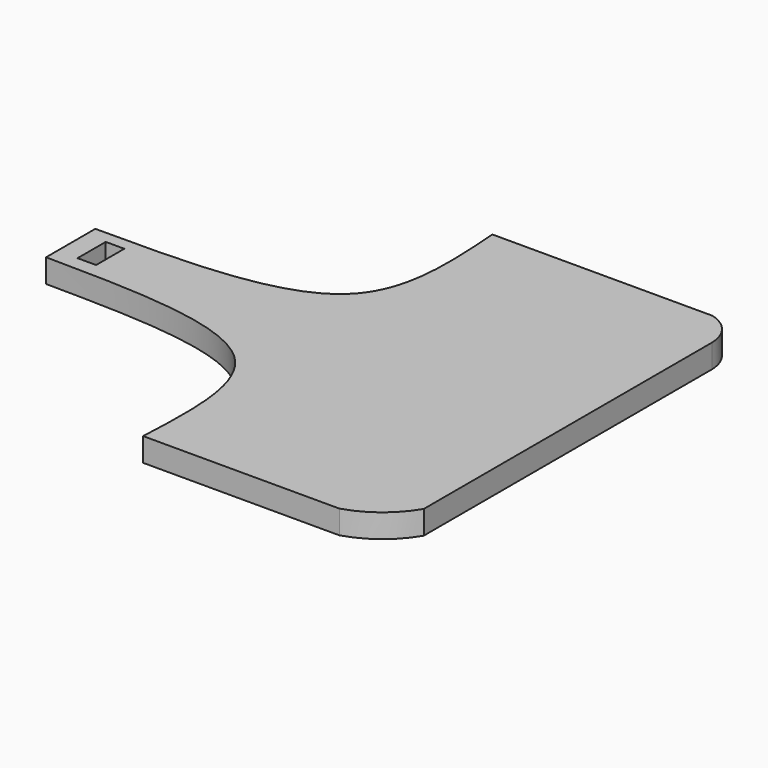
from build123d import *

# Parameters (mm, degrees)
F0_W     = 400
F0_H     = 352
F1_DEPTH = 19
F3_DEPTH = 19.001
F5_DEPTH = 19.0010001
F6_W     = 14.9907767773
F6_H     = 28.43076922
F7_DEPTH = 19.0010001


with BuildPart() as f1:
    # F0 (on Top) → F1 (new body)
    with BuildSketch(Plane.XY):
        Rectangle(F0_W, F0_H)
    extrude(amount=F1_DEPTH)

    # F2 (on face) → F3 (cut, through all)
    with BuildSketch(Plane.XY.offset(19)):
        with BuildLine():
            add(Edge.make_bspline(
                [(-200, -23.7784627825), (-126.5126396068, -24.453447739), (6.9760460018, -25.6795477673), (2.163274492, -129.3855711593), (0, -176)],
                knots=[0, 0, 0, 0, 0.5505137762, 1, 1, 1, 1], degree=3))
            Line((-200, -23.7784627825), (-200, -176))
            Line((-200, -176), (0, -176))
        make_face()
        with BuildLine():
            Line((-200, 176), (-200, 25.8461534977))
            add(Edge.make_bspline(
                [(-200, 25.8461534977), (-125.0792777845, 25.7364442733), (10.3974148662, 25.5380606696), (3.211839993, 129.5211703688), (0, 176)],
                knots=[0, 0, 0, 0, 0.5530155833, 1, 1, 1, 1], degree=3))
            Line((0, 176), (-200, 176))
        make_face()
    extrude(amount=-F3_DEPTH, mode=Mode.SUBTRACT)

    # F4 (on face) → F5 (cut, through all)
    with BuildSketch(Plane.XY.offset(19)):
        with BuildLine():
            ThreePointArc((177.3485280662, 176), (193.531261968, 165.4340185307), (200, 147.2220370564))
            Line((200, 147.2220370564), (200, 176))
            Line((200, 176), (177.3485280662, 176))
        make_face()
        with BuildLine():
            ThreePointArc((200, -143.14840734), (182.1787262713, -163.5266665451), (158.1519246101, -176))
            Line((158.1519246101, -176), (200, -176))
            Line((200, -176), (200, -143.14840734))
        make_face()
    extrude(amount=-F5_DEPTH, mode=Mode.SUBTRACT)

    # F6 (on face) → F7 (cut, through all)
    with BuildSketch(Plane.XY.offset(19)):
        with Locations((-176.2707680464, 1.8092310056)):
            Rectangle(F6_W, F6_H)
    extrude(amount=-F7_DEPTH, mode=Mode.SUBTRACT)


solid = f1.part
